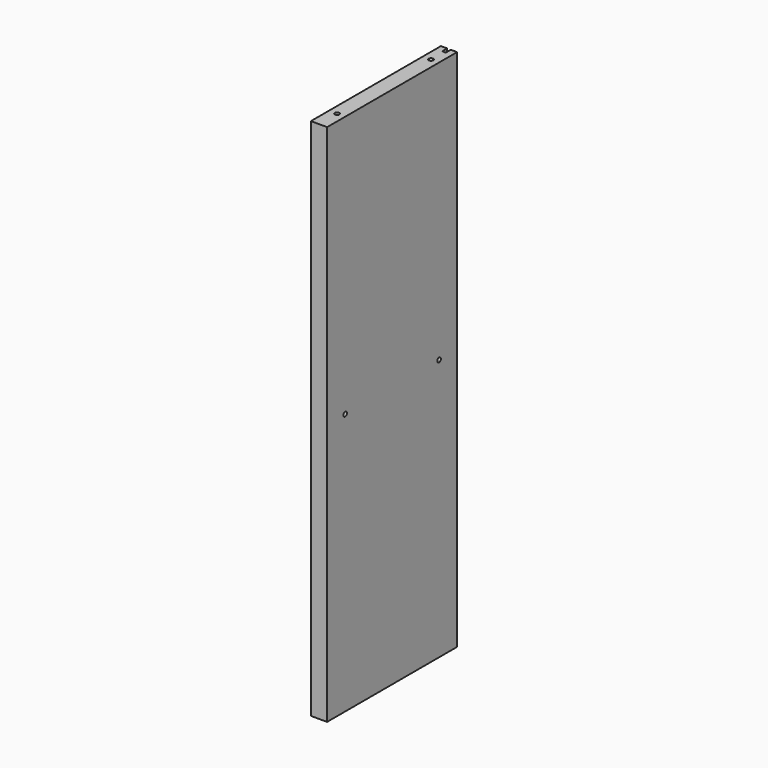
from build123d import *

# Parameters (mm, degrees)
F0_W      = 18
F0_H      = 580
F1_DEPTH  = 90
F3_D      = 5
F3_DEPTH  = 13.5
F3_TIP    = 1.5021515476
F5_D      = 5
F5_DEPTH  = 15
F5_TIP    = 1.5021515476
F6_W      = 180
F6_H      = 580
F6_R      = 2.5
F7_DEPTH  = 10
F8_R      = 2.5
F9_DEPTH  = 10
F10_W     = 4
F10_H     = 580
F11_DEPTH = 7


with BuildPart() as f1:
    # F0 (on Front) → F1 (new body, symmetric)
    with BuildSketch(Plane.XZ):
        Rectangle(F0_W, F0_H)
    extrude(amount=F1_DEPTH, both=True)

    # F3
    with Locations(Plane.XY.offset(290)):
        with Locations((0, 65), (0, -65)):
            Hole(F3_D / 2, depth=F3_DEPTH)
            with Locations((0, 0, -(F3_DEPTH + F3_TIP / 2))):  # 118° drill point
                Cone(0, F3_D / 2, F3_TIP, mode=Mode.SUBTRACT)

    # F5
    with Locations(Plane(origin=(0, 0, -290), x_dir=(1, 0, 0), z_dir=(0, 0, -1))):
        with Locations((0, 65), (0, -65)):
            Hole(F5_D / 2, depth=F5_DEPTH)
            with Locations((0, 0, -(F5_DEPTH + F5_TIP / 2))):  # 118° drill point
                Cone(0, F5_D / 2, F5_TIP, mode=Mode.SUBTRACT)

    # F6 (on face) → F7 (cut)
    with BuildSketch(Plane.YZ.offset(9)):
        Rectangle(F6_W, F6_H)
        with Locations((-60, 0)):
            Circle(F6_R, mode=Mode.SUBTRACT)
        with Locations((60, 0)):
            Circle(F6_R, mode=Mode.SUBTRACT)
    extrude(amount=F7_DEPTH, mode=Mode.SUBTRACT)

    # F8 (on face) → F9 (cut)
    with BuildSketch(Plane.YZ.offset(9)):
        with Locations((-65, 0)):
            Circle(F8_R)
        with Locations((65, 0)):
            Circle(F8_R)
    extrude(amount=-F9_DEPTH, mode=Mode.SUBTRACT)

    # F10 (on face) → F11 (cut)
    with BuildSketch(Plane(origin=(0, 90, 0), x_dir=(-1, 0, 0), z_dir=(0, 1, 0))):
        Rectangle(F10_W, F10_H)
    extrude(amount=-F11_DEPTH, mode=Mode.SUBTRACT)


solid = f1.part
